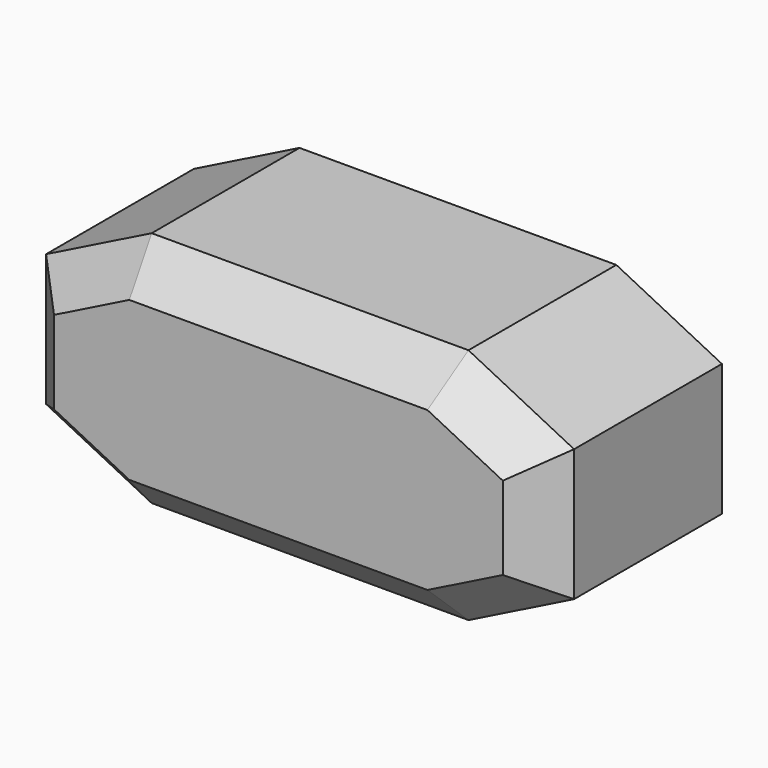
from build123d import *

# Parameters (mm, degrees)
F1_DEPTH = 20
F2_SIZE  = 3
F3_R     = 6
F4_DEPTH = 10
F5_R     = 0.5


with BuildPart() as f1:
    # F0 (on Front) → F1 (new body)
    with BuildSketch(Plane.XZ):
        Polygon((0, 4), (8, 0), (32, 0), (40, 4), (40, 14), (32, 18), (8, 18), (0, 14), align=None)
    extrude(amount=F1_DEPTH)

    # F2
    f2_edges = [f1.edges().sort_by_distance(p)[0] for p in [
        (4, -20, 2),
        (20, -20, 0),
        (36, -20, 2),
        (40, -20, 9),
        (36, -20, 16),
        (20, -20, 18),
        (4, -20, 16),
        (0, -20, 9),
        (4, 0, 2),
        (20, 0, 0),
        (36, 0, 2),
        (40, 0, 9),
        (36, 0, 16),
        (20, 0, 18),
        (4, 0, 16),
        (0, 0, 9),
    ]]
    chamfer(f2_edges, length=F2_SIZE)

    # F3 (on face) → F4 (cut)
    with BuildSketch(Plane(origin=(0, 0, 0), x_dir=(1, 0, 0), z_dir=(0, 0, -1))):
        with Locations((20, 10)):
            Circle(F3_R)
    extrude(amount=-F4_DEPTH, mode=Mode.SUBTRACT)

    # F5
    f5_edges = [f1.edges().sort_by_distance(p)[0] for p in [
        (14, -10, 10),
    ]]
    fillet(f5_edges, radius=F5_R)


solid = f1.part
